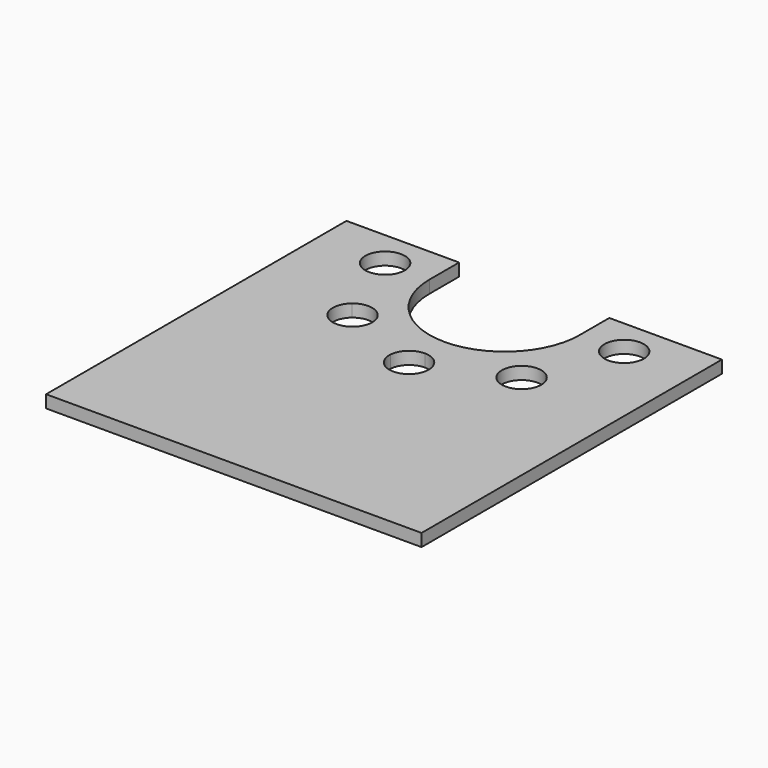
from build123d import *

# Parameters (mm, degrees)
F1_DEPTH = 10


with BuildPart() as f1:
    # F0 (on Top) → F1 (new body)
    with BuildSketch(Plane.XY):
        with BuildLine():
            Line((150, 29.5), (111.1519230603, 29.5))
            ThreePointArc((111.1519230603, 29.5), (114.0339229176, 14.8749596313), (115, 0))
            ThreePointArc((115, 0), (-14.8749596313, -114.0339229176), (-111.1519230603, 29.5))
            Line((-111.1519230603, 29.5), (-150, 29.5))
            Line((-150, 29.5), (-150, -270.5))
            Line((-150, -270.5), (150, -270.5))
            Line((150, -270.5), (150, -95.5))
            Line((150, -95.5), (150, 29.5))
        make_face()
        with BuildLine():
            ThreePointArc((90.8295106229, 29.5), (92.7724641524, 22.6609773642), (94.2012434555, 15.696360452))
            ThreePointArc((94.2012434555, 15.696360452), (106.1678743062, 11.5870167769), (111.25, 0))
            ThreePointArc((111.25, 0), (106.1678743062, -11.5870167769), (94.2012434555, -15.696360452))
            ThreePointArc((94.2012434555, -15.696360452), (88.2304953548, -36.5462677909), (77.7093409591, -55.5113351281))
            ThreePointArc((77.7093409591, -55.5113351281), (81.8186876812, -60.9061087158), (83.2786976033, -67.5286976033))
            ThreePointArc((83.2786976033, -67.5286976033), (72.9503689791, -82.3161240019), (55.5113351281, -77.7093409591))
            ThreePointArc((55.5113351281, -77.7093409591), (36.5462677909, -88.2304953548), (15.696360452, -94.2012434555))
            ThreePointArc((15.696360452, -94.2012434555), (15.7365843994, -94.8500681261), (15.75, -95.5))
            ThreePointArc((15.75, -95.5), (-0.6499318739, -111.2365843994), (-15.696360452, -94.2012434555))
            ThreePointArc((-15.696360452, -94.2012434555), (-36.5462677909, -88.2304953548), (-55.5113351281, -77.7093409591))
            ThreePointArc((-55.5113351281, -77.7093409591), (-78.665629407, -78.665629407), (-77.7093409591, -55.5113351281))
            ThreePointArc((-77.7093409591, -55.5113351281), (-88.2304953548, -36.5462677909), (-94.2012434555, -15.696360452))
            ThreePointArc((-94.2012434555, -15.696360452), (-111.25, 0), (-94.2012434555, 15.696360452))
            ThreePointArc((-94.2012434555, 15.696360452), (-92.7724641524, 22.6609773642), (-90.8295106229, 29.5))
            Line((-90.8295106229, 29.5), (-111.1519230603, 29.5))
            ThreePointArc((-111.1519230603, 29.5), (-14.8749596313, -114.0339229176), (115, 0))
            ThreePointArc((115, 0), (114.0339229176, 14.8749596313), (111.1519230603, 29.5))
            Line((111.1519230603, 29.5), (90.8295106229, 29.5))
        make_face()
        with BuildLine():
            Line((-60, 29.5), (-90.8295106229, 29.5))
            ThreePointArc((-90.8295106229, 29.5), (-92.7724641524, 22.6609773642), (-94.2012434555, 15.696360452))
            ThreePointArc((-94.2012434555, 15.696360452), (-83.9129832231, 10.6678743062), (-79.75, 0))
            ThreePointArc((-79.75, 0), (-83.9129832231, -10.6678743062), (-94.2012434555, -15.696360452))
            ThreePointArc((-94.2012434555, -15.696360452), (-88.2304953548, -36.5462677909), (-77.7093409591, -55.5113351281))
            ThreePointArc((-77.7093409591, -55.5113351281), (-60.9061087158, -53.2387075254), (-51.7786976033, -67.5286976033))
            ThreePointArc((-51.7786976033, -67.5286976033), (-52.7412712048, -72.9503689791), (-55.5113351281, -77.7093409591))
            ThreePointArc((-55.5113351281, -77.7093409591), (-36.5462677909, -88.2304953548), (-15.696360452, -94.2012434555))
            ThreePointArc((-15.696360452, -94.2012434555), (-10.6678743062, -83.9129832231), (0, -79.75))
            Line((0, -79.75), (0, -60))
            ThreePointArc((0, -60), (-42.4264068712, -42.4264068712), (-60, 0))
            Line((-60, 0), (-60, 29.5))
        make_face()
        with BuildLine():
            ThreePointArc((94.2012434555, -15.696360452), (79.75, 0), (94.2012434555, 15.696360452))
            ThreePointArc((94.2012434555, 15.696360452), (92.7724641524, 22.6609773642), (90.8295106229, 29.5))
            Line((90.8295106229, 29.5), (60, 29.5))
            Line((60, 29.5), (60, 0))
            ThreePointArc((60, 0), (42.4264068712, -42.4264068712), (0, -60))
            Line((0, -60), (0, -79.75))
            ThreePointArc((0, -79.75), (10.6678743062, -83.9129832231), (15.696360452, -94.2012434555))
            ThreePointArc((15.696360452, -94.2012434555), (36.5462677909, -88.2304953548), (55.5113351281, -77.7093409591))
            ThreePointArc((55.5113351281, -77.7093409591), (56.3917657996, -56.3917657996), (77.7093409591, -55.5113351281))
            ThreePointArc((77.7093409591, -55.5113351281), (88.2304953548, -36.5462677909), (94.2012434555, -15.696360452))
        make_face()
    extrude(amount=F1_DEPTH)


solid = f1.part
